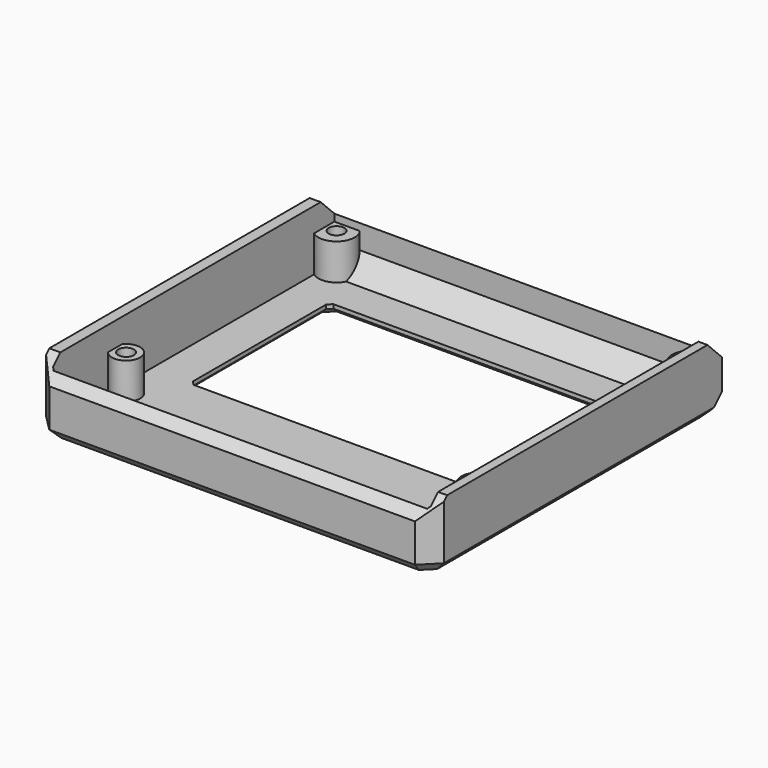
from build123d import *

# Parameters (mm, degrees)
PAD_DEPTH       = 17
POCKET_DEPTH    = 15
SKETCH002_R     = 4
SKETCH002_W     = 74.5
SKETCH002_H     = 43.5
SKETCH002_W_2   = 10
SKETCH002_H_2   = 10
POCKET001_DEPTH = 482
SKETCH003_R     = 4.5
SKETCH003_R_2   = 1.95
SKETCH003_R_3   = 3.5
PAD001_DEPTH    = 9
POCKET002_DEPTH = 99
PAD002_DEPTH    = 99
CHAMFER_SIZE    = 2.5
CHAMFER001_SIZE = 1


with BuildPart() as part:
    # Sketch → Pad (new body)
    with BuildSketch(Plane.XY):
        Polygon((0, 0), (99, 0), (99, -89), (95, -93), (4, -93), (0, -89), align=None)
    extrude(amount=PAD_DEPTH)

    # Sketch001 → Pocket (cut)
    with BuildSketch(Plane.XY.offset(17)):
        Polygon((2.75, -2.75), (96.75, -2.75), (96.75, -90.25), (96.25, -90.75), (3.25, -90.75), (2.75, -90.25), align=None)
    extrude(amount=-POCKET_DEPTH, mode=Mode.SUBTRACT)

    # Sketch002 (on Sketch) → Pocket001 (cut)
    with BuildSketch(Plane.XY.offset(482)):
        with Locations((12.75, -82)):
            Circle(SKETCH002_R)
        with Locations((49.75, -38.25)):
            Rectangle(SKETCH002_W, SKETCH002_H)
        with Locations((46.5, -82)):
            Rectangle(SKETCH002_W_2, SKETCH002_H_2)
    extrude(amount=-POCKET001_DEPTH, mode=Mode.SUBTRACT)

    # Sketch003 → Pad001 (join)
    with BuildSketch(Plane.XY.offset(2)):
        with Locations((5.5, -5.5)):
            Circle(SKETCH003_R)
        with Locations((5.5, -5.5)):
            Circle(SKETCH003_R_2, mode=Mode.SUBTRACT)
        with Locations((93.5, -5.5)):
            Circle(SKETCH003_R)
        with Locations((93.5, -5.5)):
            Circle(SKETCH003_R_2, mode=Mode.SUBTRACT)
        with Locations((5.5, -71)):
            Circle(SKETCH003_R_3)
        with Locations((5.5, -71)):
            Circle(SKETCH003_R_2, mode=Mode.SUBTRACT)
        with Locations((93.5, -71)):
            Circle(SKETCH003_R)
        with Locations((93.5, -71)):
            Circle(SKETCH003_R_2, mode=Mode.SUBTRACT)
    extrude(amount=PAD001_DEPTH)

    # Sketch004 → Pocket002 (cut)
    with BuildSketch(Plane.YZ):
        Polygon((-93, 24.5), (-93, 12), (-80.5, 24.5), align=None)
        Polygon((-12.5, 22.5), (0, 10), (0, 22.5), align=None)
        Polygon((0, 0), (0, 6), (-6, 0), align=None)
    extrude(amount=POCKET002_DEPTH, mode=Mode.SUBTRACT)

    # Sketch005 → Pad002 (join)
    with BuildSketch(Plane.YZ):
        Polygon((0, 6), (-6, 0), (-9.54, 0), (0, 9.54), align=None)
    extrude(amount=PAD002_DEPTH)

    # Chamfer
    chamfer_edges = [part.edges().sort_by_distance(p)[0] for p in [
        (99, -47.5, 0),
        (97, -91, 0),
        (49.5, -93, 0),
        (2, -91, 0),
        (0, -47.5, 0),
        (99, 0, 8),
        (0, 0, 8),
    ]]
    chamfer(chamfer_edges, length=CHAMFER_SIZE)

    # Chamfer001
    chamfer001_edges = [part.edges().sort_by_distance(p)[0] for p in [
        (99, -3, 3),
        (0, -3, 3),
        (12.5, -38.25, 0),
        (49.75, -16.5, 0),
        (49.75, -60, 0),
        (87, -38.25, 0),
        (51.5, -82, 0),
        (46.5, -87, 0),
        (41.5, -82, 0),
        (46.5, -77, 0),
        (8.75, -82, 0),
        (12.5, -60, 1),
        (87, -16.5, 1),
        (12.5, -16.5, 1),
        (87, -60, 1),
    ]]
    chamfer(chamfer001_edges, length=CHAMFER001_SIZE)


solid = part.part
